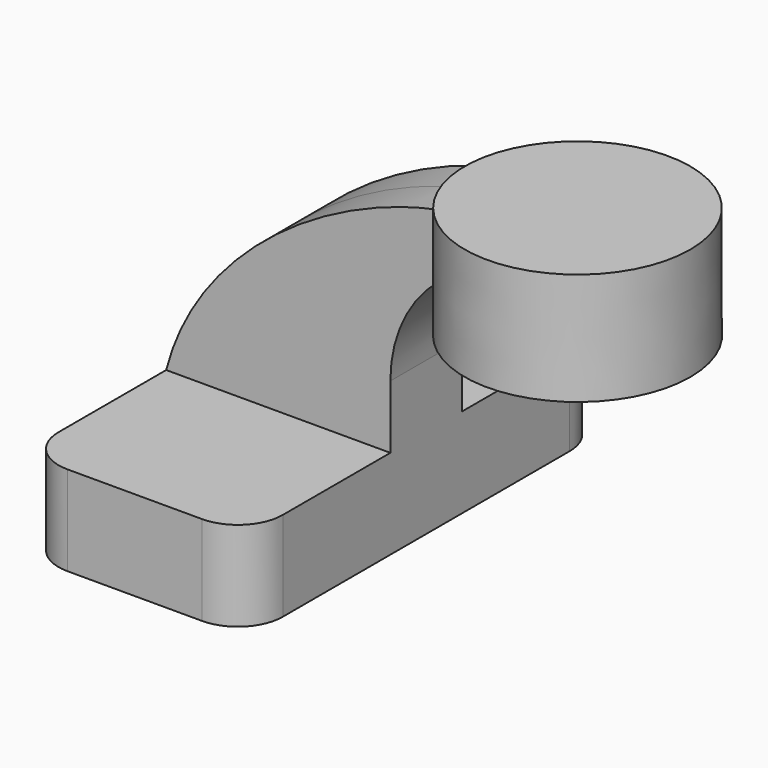
from build123d import *

# Parameters (mm, degrees)
F1_DEPTH = 127
F2_DEPTH = 25.4
F4_R     = 25.4


with BuildPart() as f1:
    # F0 (on Front) → F1 (new body, symmetric)
    with BuildSketch(Plane.XZ):
        Polygon((42.44389, 25.4), (-63.5, 25.4), (-63.5, -25.4), (63.5, -25.4), (63.5, 25.4), align=None)
    extrude(amount=F1_DEPTH, both=True)

    # F0 (on Front) → F2 (join, symmetric)
    with BuildSketch(Plane.XZ):
        with BuildLine():
            add(Edge.make_bspline(
                [(-63.5, 25.4), (-42.358271, 108.126874), (62.167687, 166.074246), (139.7, 158.507851)],
                knots=[0, 0, 0, 0, 242.9155, 242.9155, 242.9155, 242.9155], degree=3))
            Line((-63.5, 25.4), (42.44389, 25.4))
            Line((42.44389, 25.4), (42.44389, 61.251742))
            ThreePointArc((42.44389, 61.251742), (70.929545, 130.022196), (139.7, 158.507851))
        make_face()
        with BuildLine():
            Line((42.44389, 61.251742), (42.44389, 25.4))
            Line((42.44389, 25.4), (63.5, 25.4))
            Line((63.5, 25.4), (63.5, 61.251742))
            ThreePointArc((63.5, 61.251742), (85.818463, 115.133278), (139.7, 137.451742))
            Line((139.7, 137.451742), (149.225, 137.451742))
            Line((149.225, 137.451742), (149.225, 158.507851))
            Line((149.225, 158.507851), (139.7, 158.507851))
            ThreePointArc((139.7, 158.507851), (70.929545, 130.022196), (42.44389, 61.251742))
        make_face()
    extrude(amount=F2_DEPTH, both=True)

    # F0 (on Front) → F3 (revolve)
    with BuildSketch(Plane.XZ):
        Polygon((149.225, 165.1), (149.225, 158.507851), (149.225, 137.451742), (149.225, 101.6), (213.216364, 101.6), (213.1069, 165.1), align=None)
    revolve(axis=Axis((149.225, 0, 133.35), (0, 0, -1)))

    # F4
    f4_edges = [f1.edges().sort_by_distance(p)[0] for p in [
        (63.5, -127, 0),
        (-63.5, -127, 0),
        (63.5, 127, 0),
        (-63.5, 127, 0),
    ]]
    fillet(f4_edges, radius=F4_R)


solid = f1.part
